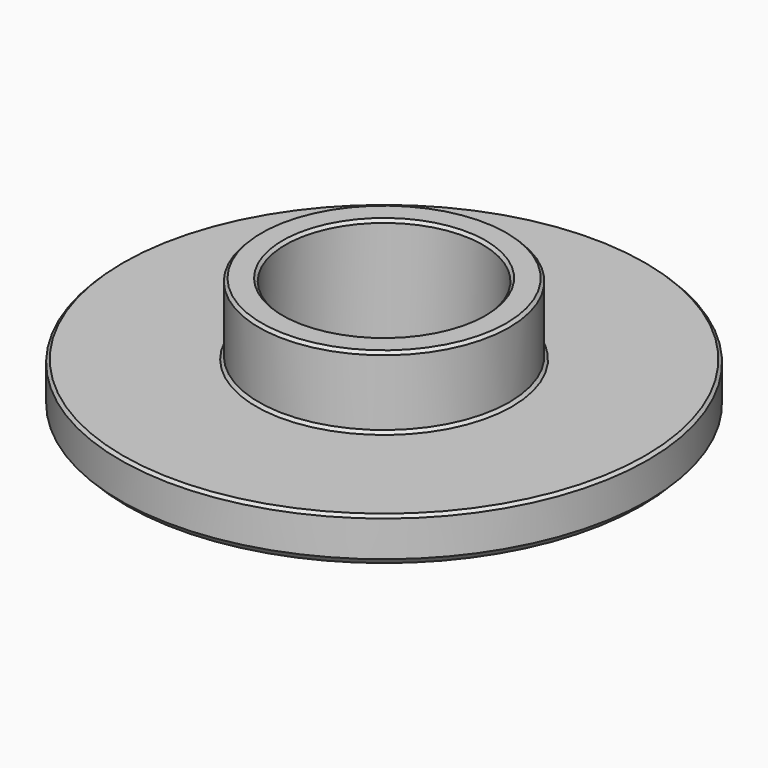
from build123d import *

# Parameters (mm, degrees)
F0_R     = 18.45
F0_R_2   = 6.9
F1_DEPTH = 3.2
F2_R     = 8.75
F2_R_2   = 6.9
F3_DEPTH = 5
F4_SIZE  = 0.5
F5_SIZE  = 0.2


with BuildPart() as f1:
    # F0 (on Top) → F1 (new body)
    with BuildSketch(Plane.XY):
        Circle(F0_R)
        Circle(F0_R_2, mode=Mode.SUBTRACT)
    extrude(amount=F1_DEPTH)

    # F2 (on face) → F3 (join)
    with BuildSketch(Plane.XY.offset(3.2)):
        Circle(F2_R)
        Circle(F2_R_2, mode=Mode.SUBTRACT)
    extrude(amount=F3_DEPTH)

    # F4
    f4_edges = [f1.edges().sort_by_distance(p)[0] for p in [
        (-18.45, 0, 0),
    ]]
    chamfer(f4_edges, length=F4_SIZE)

    # F5
    f5_edges = [f1.edges().sort_by_distance(p)[0] for p in [
        (-6.9, 0, 0),
        (-6.9, 0, 8.2),
        (-8.75, 0, 8.2),
        (-8.75, 0, 3.2),
        (-18.45, 0, 3.2),
    ]]
    chamfer(f5_edges, length=F5_SIZE)


solid = f1.part
